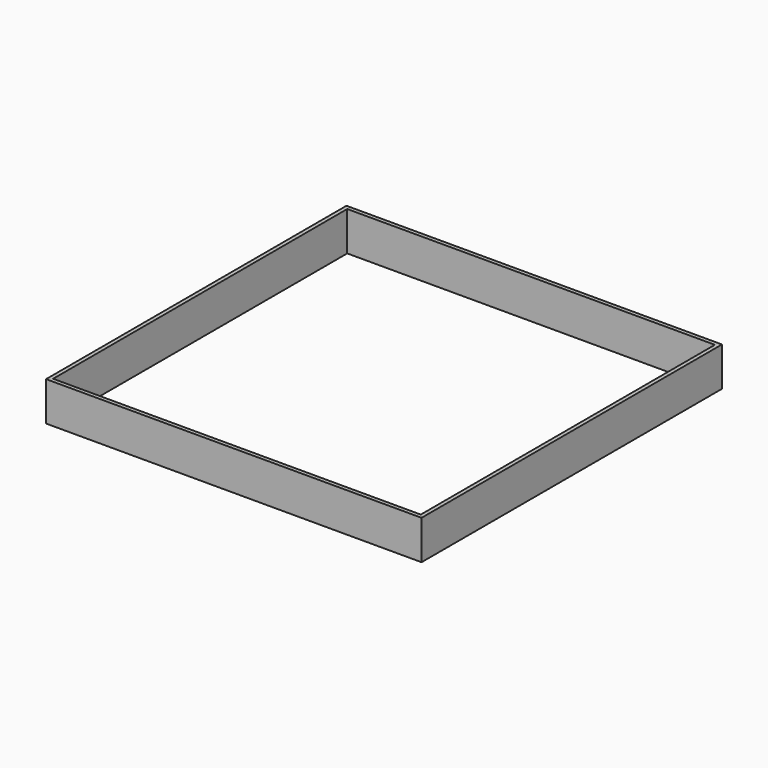
from build123d import *

# Parameters (mm, degrees)
SKETCH_W     = 144
SKETCH_H     = 144
PAD_DEPTH    = 15
SKETCH001_W  = 141
SKETCH001_H  = 141
POCKET_DEPTH = 15.001


with BuildPart() as part:
    # Sketch → Pad (new body)
    with BuildSketch(Plane.XY):
        Rectangle(SKETCH_W, SKETCH_H)
    extrude(amount=PAD_DEPTH)

    # Sketch001 (on Face6 of Pad) → Pocket (cut, through all)
    with BuildSketch(Plane.XY.offset(15)):
        Rectangle(SKETCH001_W, SKETCH001_H)
    extrude(amount=-POCKET_DEPTH, mode=Mode.SUBTRACT)


solid = part.part
